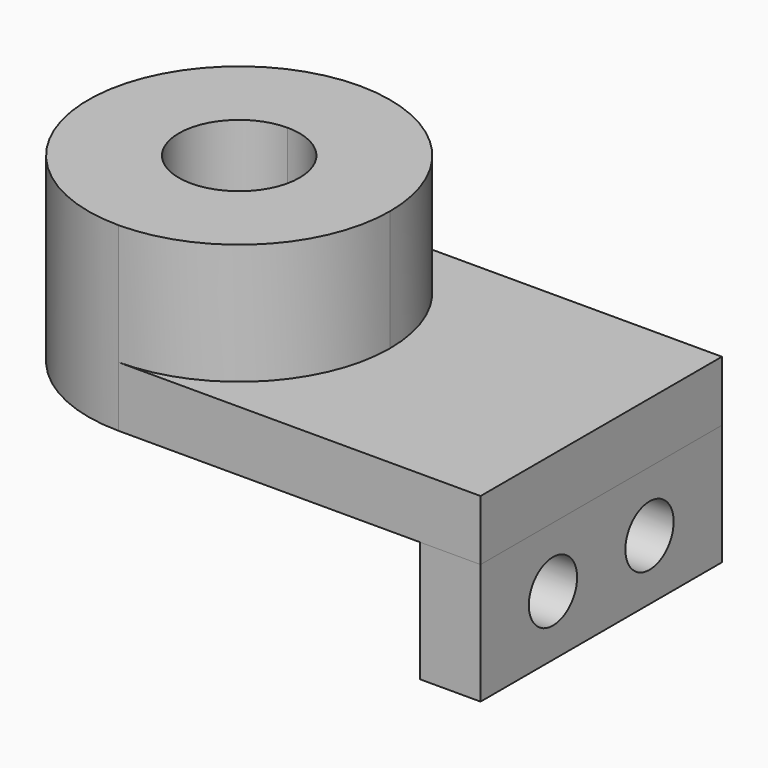
from build123d import *

# Parameters (mm, degrees)
F1_DEPTH = 12.7
F2_DEPTH = 38.1
F3_W     = 31.75
F3_H     = 25.4
F3_R     = 6.35
F4_DEPTH = 12.7


with BuildPart() as f1:
    # F0 (on Top) → F1 (new body)
    with BuildSketch(Plane.XY):
        with BuildLine():
            Line((-38.1, -31.75), (38.1, -31.75))
            Line((38.1, -31.75), (38.1, 31.75))
            Line((38.1, 31.75), (-38.1, 31.75))
            ThreePointArc((-38.1, 31.75), (-15.64936, 22.45064), (-6.35, 0))
            ThreePointArc((-6.35, 0), (-15.64936, -22.45064), (-38.1, -31.75))
        make_face()
        with BuildLine():
            Line((-38.1, -12.7), (-38.1, -31.75))
            ThreePointArc((-38.1, -31.75), (-15.64936, -22.45064), (-6.35, 0))
            ThreePointArc((-6.35, 0), (-15.64936, 22.45064), (-38.1, 31.75))
            Line((-38.1, 31.75), (-38.1, 12.7))
            ThreePointArc((-38.1, 12.7), (-29.119744, 8.980256), (-25.4, 0))
            ThreePointArc((-25.4, 0), (-29.119744, -8.980256), (-38.1, -12.7))
        make_face()
        with BuildLine():
            ThreePointArc((-38.1, 31.75), (-69.85, 0), (-38.1, -31.75))
            Line((-38.1, -31.75), (-38.1, -12.7))
            ThreePointArc((-38.1, -12.7), (-50.8, 0), (-38.1, 12.7))
            Line((-38.1, 12.7), (-38.1, 31.75))
        make_face()
    extrude(amount=F1_DEPTH)

    # F0 (on Top) → F2 (join)
    with BuildSketch(Plane.XY):
        with BuildLine():
            Line((-38.1, -12.7), (-38.1, -31.75))
            ThreePointArc((-38.1, -31.75), (-15.64936, -22.45064), (-6.35, 0))
            ThreePointArc((-6.35, 0), (-15.64936, 22.45064), (-38.1, 31.75))
            Line((-38.1, 31.75), (-38.1, 12.7))
            ThreePointArc((-38.1, 12.7), (-29.119744, 8.980256), (-25.4, 0))
            ThreePointArc((-25.4, 0), (-29.119744, -8.980256), (-38.1, -12.7))
        make_face()
        with BuildLine():
            ThreePointArc((-38.1, 31.75), (-69.85, 0), (-38.1, -31.75))
            Line((-38.1, -31.75), (-38.1, -12.7))
            ThreePointArc((-38.1, -12.7), (-50.8, 0), (-38.1, 12.7))
            Line((-38.1, 12.7), (-38.1, 31.75))
        make_face()
    extrude(amount=F2_DEPTH)


with BuildPart() as f4:
    # F3 (on face) → F4 (new body)
    with BuildSketch(Plane.YZ.offset(38.1)):
        with Locations((-15.875, -12.7)):
            Rectangle(F3_W, F3_H)
        with Locations((-12.7, -12.7)):
            Circle(F3_R, mode=Mode.SUBTRACT)
        with Locations((15.875, -12.7)):
            Rectangle(F3_W, F3_H)
        with Locations((12.7, -12.7)):
            Circle(F3_R, mode=Mode.SUBTRACT)
    extrude(amount=-F4_DEPTH)


solid = Compound([f1.part, f4.part])
